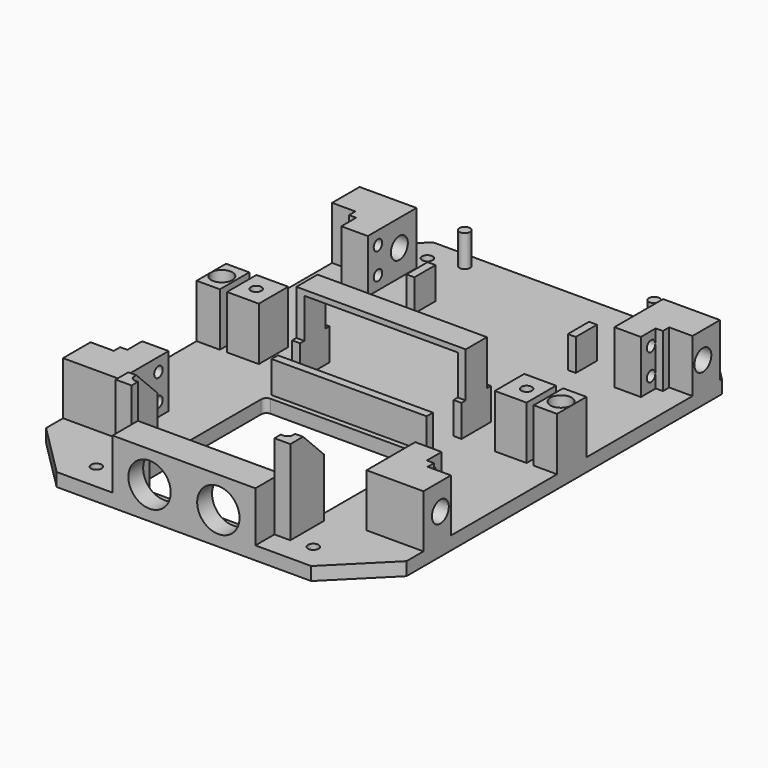
from build123d import *

# Parameters (mm, degrees)
CYLINDER311_R     = 2
CYLINDER311_DEPTH = 47
CYLINDER212_R     = 2
CYLINDER212_DEPTH = 47
CYLINDER229_R     = 2
CYLINDER229_DEPTH = 42
CYLINDER227_R     = 2
CYLINDER227_DEPTH = 42
CYLINDER283_R     = 4
CYLINDER283_DEPTH = 5
CYLINDER289_R     = 4
CYLINDER289_DEPTH = 5
BOX361_W          = 64
BOX361_H          = 10
BOX361_DEPTH      = 2
BOX358_W          = 3
BOX358_H          = 10
BOX358_DEPTH      = 27
BOX360_W          = 3
BOX360_H          = 10
BOX360_DEPTH      = 27
BOX214_W          = 3
BOX214_H          = 13.9
BOX214_DEPTH      = 12
BOX213_W          = 3
BOX213_H          = 13.9
BOX213_DEPTH      = 12
BOX402_W          = 3
BOX402_H          = 10
BOX402_DEPTH      = 12
BOX401_W          = 3
BOX401_H          = 10
BOX401_DEPTH      = 12
BOX235_W          = 58.6
BOX235_H          = 3
BOX235_DEPTH      = 12
CYLINDER304_R     = 2
CYLINDER304_DEPTH = 12
CYLINDER305_R     = 2
CYLINDER305_DEPTH = 12
BOX391_W          = 60
BOX391_H          = 13
BOX391_DEPTH      = 32
FILLET015_R       = 2
BOX388_W          = 6
BOX388_H          = 16
BOX388_DEPTH      = 32
BOX390_W          = 6
BOX390_H          = 16
BOX390_DEPTH      = 32
CHAMFER_SIZE      = 10
CYLINDER140_R     = 4
CYLINDER140_DEPTH = 47.8
BOX307_W          = 21.5
BOX307_H          = 13
BOX307_DEPTH      = 20
CYLINDER137_R     = 4
CYLINDER137_DEPTH = 47.8
BOX242_W          = 21.5
BOX242_H          = 13
BOX242_DEPTH      = 20
CYLINDER139_R     = 4
CYLINDER139_DEPTH = 47.8
BOX312_W          = 21.5
BOX312_H          = 13
BOX312_DEPTH      = 20
CYLINDER146_R     = 4
CYLINDER146_DEPTH = 47.8
BOX302_W          = 21.5
BOX302_H          = 13
BOX302_DEPTH      = 20
CYLINDER155_R     = 2
CYLINDER155_DEPTH = 20
CYLINDER156_R     = 2
CYLINDER156_DEPTH = 20
BOX345_W          = 10
BOX345_H          = 7
BOX345_DEPTH      = 20
BOX348_W          = 12.7
BOX348_H          = 3
BOX348_DEPTH      = 20
CYLINDER154_R     = 2
CYLINDER154_DEPTH = 20
CYLINDER153_R     = 2
CYLINDER153_DEPTH = 20
BOX347_W          = 12.7
BOX347_H          = 3
BOX347_DEPTH      = 20
BOX344_W          = 10
BOX344_H          = 7
BOX344_DEPTH      = 20
CYLINDER147_R     = 2
CYLINDER147_DEPTH = 20
CYLINDER148_R     = 2
CYLINDER148_DEPTH = 20
BOX229_W          = 10
BOX229_H          = 7
BOX229_DEPTH      = 20
BOX315_W          = 12.7
BOX315_H          = 3
BOX315_DEPTH      = 20
CYLINDER162_R     = 2
CYLINDER162_DEPTH = 20
CYLINDER161_R     = 2
CYLINDER161_DEPTH = 20
BOX346_W          = 10
BOX346_H          = 7
BOX346_DEPTH      = 20
BOX349_W          = 12.7
BOX349_H          = 3
BOX349_DEPTH      = 20
CYLINDER287_R     = 4
CYLINDER287_DEPTH = 10
BOX364_W          = 8.8
BOX364_H          = 13.9
BOX364_DEPTH      = 20.1
CYLINDER279_R     = 4
CYLINDER279_DEPTH = 5
BOX362_W          = 8.8
BOX362_H          = 13.9
BOX362_DEPTH      = 20.1
CYLINDER280_R     = 2
CYLINDER280_DEPTH = 25.1
BOX351_W          = 12
BOX351_H          = 13.9
BOX351_DEPTH      = 20.1
CYLINDER288_R     = 2
CYLINDER288_DEPTH = 30.1
BOX363_W          = 12
BOX363_H          = 13.9
BOX363_DEPTH      = 20.1
CYLINDER004_R     = 8
CYLINDER004_DEPTH = 15
CYLINDER005_R     = 8
CYLINDER005_DEPTH = 15
BOX027_W          = 45.2
BOX027_H          = 5
BOX027_DEPTH      = 20.4
BOX102_W          = 60
BOX102_H          = 64
BOX102_DEPTH      = 5
FILLET_R          = 2
BOX016_W          = 136.2
BOX016_H          = 184
BOX016_DEPTH      = 5
BOX254_W          = 54
BOX254_H          = 12
BOX254_DEPTH      = 22
CHAMFER036_SIZE   = 20
CHAMFER037_SIZE   = 15


with BuildPart() as cylinder311:
    # Cylinder311 → Cylinder311 (new body)
    with BuildSketch(Plane(origin=(-75, -98, -5), x_dir=(1, 0, 0), z_dir=(0, 0, 1))):
        Circle(CYLINDER311_R)
    extrude(amount=CYLINDER311_DEPTH)


with BuildPart() as fusion313:
    # Cylinder212 → Cylinder212 (new body)
    with BuildSketch(Plane(origin=(7, -98, -5), x_dir=(1, 0, 0), z_dir=(0, 0, 1))):
        Circle(CYLINDER212_R)
    extrude(amount=CYLINDER212_DEPTH)

    # Fusion313: union Cylinder311
    add(cylinder311.part)


with BuildPart() as cylinder229:
    # Cylinder229 → Cylinder229 (new body)
    with BuildSketch(Plane(origin=(14.1, 72, -5), x_dir=(1, 0, 0), z_dir=(0, 0, 1))):
        Circle(CYLINDER229_R)
    extrude(amount=CYLINDER229_DEPTH)


with BuildPart() as fusion318:
    # Cylinder227 → Cylinder227 (new body)
    with BuildSketch(Plane(origin=(-81.9, 72, -5), x_dir=(1, 0, 0), z_dir=(0, 0, 1))):
        Circle(CYLINDER227_R)
    extrude(amount=CYLINDER227_DEPTH)

    # Fusion273: union Cylinder229
    add(cylinder229.part)


with BuildPart() as fusion318_1:
    # Fusion273 placement: moved
    add(fusion318.part.moved(Location((0, -5, 0))))

    # Fusion318: union Fusion313
    add(fusion313.part)


with BuildPart() as cylinder283:
    # Cylinder283 → Cylinder283 (new body)
    with BuildSketch(Plane(origin=(17.2, -10, -5), x_dir=(1, 0, 0), z_dir=(0, 0, 1))):
        Circle(CYLINDER283_R)
    extrude(amount=CYLINDER283_DEPTH)


with BuildPart() as fusion327:
    # Cylinder289 → Cylinder289 (new body)
    with BuildSketch(Plane(origin=(-85, -10, -5), x_dir=(1, 0, 0), z_dir=(0, 0, 1))):
        Circle(CYLINDER289_R)
    extrude(amount=CYLINDER289_DEPTH)

    # Fusion216: union Cylinder283
    add(cylinder283.part)

    # Fusion327: union Fusion318
    add(fusion318_1.part)


with BuildPart() as box361:
    # Box361 → Box361 (new body)
    with BuildSketch(Plane(origin=(-65.9, -14.9, 27), x_dir=(1, 0, 0), z_dir=(0, 0, 1))):
        with Locations((32, 5)):
            Rectangle(BOX361_W, BOX361_H)
    extrude(amount=BOX361_DEPTH)


with BuildPart() as box358:
    # Box358 → Box358 (new body)
    with BuildSketch(Plane(origin=(-4.9, -14.9, 0), x_dir=(1, 0, 0), z_dir=(0, 0, 1))):
        with Locations((1.5, 5)):
            Rectangle(BOX358_W, BOX358_H)
    extrude(amount=BOX358_DEPTH)


with BuildPart() as fusion234:
    # Box360 → Box360 (new body)
    with BuildSketch(Plane(origin=(-65.9, -14.9, 0), x_dir=(1, 0, 0), z_dir=(0, 0, 1))):
        with Locations((1.5, 5)):
            Rectangle(BOX360_W, BOX360_H)
    extrude(amount=BOX360_DEPTH)

    # Fusion234: union Box361, Box358
    add(box361.part)
    add(box358.part)


with BuildPart() as box214:
    # Box214 → Box214 (new body)
    with BuildSketch(Plane(origin=(-4.9, -16.9, 0), x_dir=(1, 0, 0), z_dir=(0, 0, 1))):
        with Locations((1.5, 6.95)):
            Rectangle(BOX214_W, BOX214_H)
    extrude(amount=BOX214_DEPTH)


with BuildPart() as fusion235:
    # Box213 → Box213 (new body)
    with BuildSketch(Plane(origin=(-65.9, -16.9, 0), x_dir=(1, 0, 0), z_dir=(0, 0, 1))):
        with Locations((1.5, 6.95)):
            Rectangle(BOX213_W, BOX213_H)
    extrude(amount=BOX213_DEPTH)

    # Fusion235: union Box214
    add(box214.part)


with BuildPart() as box402:
    # Box402 → Box402 (new body)
    with BuildSketch(Plane(origin=(-4.9, -16.9, 0), x_dir=(1, 0, 0), z_dir=(0, 0, 1))):
        with Locations((1.5, 5)):
            Rectangle(BOX402_W, BOX402_H)
    extrude(amount=BOX402_DEPTH)


with BuildPart() as fusion236:
    # Box401 → Box401 (new body)
    with BuildSketch(Plane(origin=(-65.9, -16.9, 0), x_dir=(1, 0, 0), z_dir=(0, 0, 1))):
        with Locations((1.5, 5)):
            Rectangle(BOX401_W, BOX401_H)
    extrude(amount=BOX401_DEPTH)

    # Fusion236: union Box402
    add(box402.part)


with BuildPart() as fusion236_1:
    # Fusion236 placement: moved
    add(fusion236.part.moved(Location((0, 54, 0))))


with BuildPart() as fusion237:
    # Box235 → Box235 (new body)
    with BuildSketch(Plane(origin=(-63.2, -30, 0), x_dir=(1, 0, 0), z_dir=(0, 0, 1))):
        with Locations((29.3, 1.5)):
            Rectangle(BOX235_W, BOX235_H)
    extrude(amount=BOX235_DEPTH)

    # Fusion237: union Fusion234, Fusion235, Fusion236
    add(fusion234.part)
    add(fusion235.part)
    add(fusion236_1.part)


with BuildPart() as cylinder304:
    # Cylinder304 → Cylinder304 (new body)
    with BuildSketch(Plane(origin=(1.4, 70, 0), x_dir=(1, 0, 0), z_dir=(0, 0, 1))):
        Circle(CYLINDER304_R)
    extrude(amount=CYLINDER304_DEPTH)


with BuildPart() as fusion271:
    # Cylinder305 → Cylinder305 (new body)
    with BuildSketch(Plane(origin=(-70.2, 70, 0), x_dir=(1, 0, 0), z_dir=(0, 0, 1))):
        Circle(CYLINDER305_R)
    extrude(amount=CYLINDER305_DEPTH)

    # Fusion271: union Cylinder304
    add(cylinder304.part)


with BuildPart() as fillet015:
    # Box391 → Box391 (new body)
    with BuildSketch(Plane(origin=(-63.9, -93, 0), x_dir=(1, 0, 0), z_dir=(0, 0, 1))):
        with Locations((30, 6.5)):
            Rectangle(BOX391_W, BOX391_H)
    extrude(amount=BOX391_DEPTH)

    # Fillet015
    fillet015_edges = [fillet015.edges().sort_by_distance(p)[0] for p in [
        (-63.9, -93, 16),
        (-3.9, -93, 16),
    ]]
    fillet(fillet015_edges, radius=FILLET015_R)


with BuildPart() as box388:
    # Box388 → Box388 (new body)
    with BuildSketch(Plane(origin=(-66.9, -96, 0), x_dir=(1, 0, 0), z_dir=(0, 0, 1))):
        with Locations((3, 8)):
            Rectangle(BOX388_W, BOX388_H)
    extrude(amount=BOX388_DEPTH)


with BuildPart() as chamfer_body:
    # Box390 → Box390 (new body)
    with BuildSketch(Plane(origin=(-6.9, -96, 0), x_dir=(1, 0, 0), z_dir=(0, 0, 1))):
        with Locations((3, 8)):
            Rectangle(BOX390_W, BOX390_H)
    extrude(amount=BOX390_DEPTH)

    # Fusion307: union Box388
    add(box388.part)

    # Cut331: cut Fillet015
    add(fillet015.part, mode=Mode.SUBTRACT)


with BuildPart() as chamfer_body_1:
    # Cut331 placement: moved
    add(chamfer_body.part.moved(Location((0, -3, 0))))

    # Chamfer
    chamfer_edges = [chamfer_body_1.edges().sort_by_distance(p)[0] for p in [
        (-2.4, -83, 32),
        (-65.4, -83, 32),
    ]]
    chamfer(chamfer_edges, length=CHAMFER_SIZE)


with BuildPart() as cylinder140:
    # Cylinder140 → Cylinder140 (new body)
    with BuildSketch(Plane(origin=(9.4, -82, 10), x_dir=(0, 0, -1), z_dir=(1, 0, 0))):
        Circle(CYLINDER140_R)
    extrude(amount=CYLINDER140_DEPTH)


with BuildPart() as cut247:
    # Box307 → Box307 (new body)
    with BuildSketch(Plane(origin=(16.7, -90, 0), x_dir=(1, 0, 0), z_dir=(0, 0, 1))):
        with Locations((10.75, 6.5)):
            Rectangle(BOX307_W, BOX307_H)
    extrude(amount=BOX307_DEPTH)

    # Cut247: cut Cylinder140
    add(cylinder140.part, mode=Mode.SUBTRACT)


with BuildPart() as cut247_1:
    # Cut247 placement: moved
    add(cut247.part.moved(Location((-4, 10, 0))))


with BuildPart() as cylinder137:
    # Cylinder137 → Cylinder137 (new body)
    with BuildSketch(Plane(origin=(9.4, 62, 10), x_dir=(0, 0, -1), z_dir=(1, 0, 0))):
        Circle(CYLINDER137_R)
    extrude(amount=CYLINDER137_DEPTH)


with BuildPart() as cut093:
    # Box242 → Box242 (new body)
    with BuildSketch(Plane(origin=(16, 57.1, 0), x_dir=(1, 0, 0), z_dir=(0, 0, 1))):
        with Locations((10.75, 6.5)):
            Rectangle(BOX242_W, BOX242_H)
    extrude(amount=BOX242_DEPTH)

    # Cut093: cut Cylinder137
    add(cylinder137.part, mode=Mode.SUBTRACT)


with BuildPart() as cut093_1:
    # Cut093 placement: moved
    add(cut093.part.moved(Location((-3.3, -10, 0))))


with BuildPart() as cylinder139:
    # Cylinder139 → Cylinder139 (new body)
    with BuildSketch(Plane(origin=(-125, 62, 10), x_dir=(0, 0, -1), z_dir=(1, 0, 0))):
        Circle(CYLINDER139_R)
    extrude(amount=CYLINDER139_DEPTH)


with BuildPart() as cut245:
    # Box312 → Box312 (new body)
    with BuildSketch(Plane(origin=(-106, 57.1, 0), x_dir=(1, 0, 0), z_dir=(0, 0, 1))):
        with Locations((10.75, 6.5)):
            Rectangle(BOX312_W, BOX312_H)
    extrude(amount=BOX312_DEPTH)

    # Cut245: cut Cylinder139
    add(cylinder139.part, mode=Mode.SUBTRACT)


with BuildPart() as cut245_1:
    # Cut245 placement: moved
    add(cut245.part.moved(Location((4, -10, 0))))


with BuildPart() as cylinder146:
    # Cylinder146 → Cylinder146 (new body)
    with BuildSketch(Plane(origin=(-125, -82, 10), x_dir=(0, 0, -1), z_dir=(1, 0, 0))):
        Circle(CYLINDER146_R)
    extrude(amount=CYLINDER146_DEPTH)


with BuildPart() as fusion241:
    # Box302 → Box302 (new body)
    with BuildSketch(Plane(origin=(-106, -90, 0), x_dir=(1, 0, 0), z_dir=(0, 0, 1))):
        with Locations((10.75, 6.5)):
            Rectangle(BOX302_W, BOX302_H)
    extrude(amount=BOX302_DEPTH)

    # Cut246: cut Cylinder146
    add(cylinder146.part, mode=Mode.SUBTRACT)


with BuildPart() as fusion241_1:
    # Cut246 placement: moved
    add(fusion241.part.moved(Location((4, 10, 0))))

    # Fusion241: union Cut247, Cut093, Cut245
    add(cut247_1.part)
    add(cut093_1.part)
    add(cut245_1.part)


with BuildPart() as cylinder155:
    # Cylinder155 → Cylinder155 (new body)
    with BuildSketch(Plane(origin=(-97.2, 51.9, 5), x_dir=(0, 0, -1), z_dir=(1, 0, 0))):
        Circle(CYLINDER155_R)
    extrude(amount=CYLINDER155_DEPTH)


with BuildPart() as cylinder156:
    # Cylinder156 → Cylinder156 (new body)
    with BuildSketch(Plane(origin=(-97.2, 51.9, 15), x_dir=(0, 0, -1), z_dir=(1, 0, 0))):
        Circle(CYLINDER156_R)
    extrude(amount=CYLINDER156_DEPTH)


with BuildPart() as box345:
    # Box345 → Box345 (new body)
    with BuildSketch(Plane(origin=(-94.5, 47.1, 0), x_dir=(1, 0, 0), z_dir=(0, 0, 1))):
        with Locations((5, 3.5)):
            Rectangle(BOX345_W, BOX345_H)
    extrude(amount=BOX345_DEPTH)


with BuildPart() as cut244:
    # Box348 → Box348 (new body)
    with BuildSketch(Plane(origin=(-97.2, 54.1, 0), x_dir=(1, 0, 0), z_dir=(0, 0, 1))):
        with Locations((6.35, 1.5)):
            Rectangle(BOX348_W, BOX348_H)
    extrude(amount=BOX348_DEPTH)

    # Fusion191: union Box345
    add(box345.part)

    # Cut243: cut Cylinder156
    add(cylinder156.part, mode=Mode.SUBTRACT)

    # Cut244: cut Cylinder155
    add(cylinder155.part, mode=Mode.SUBTRACT)


with BuildPart() as cut244_1:
    # Cut244 placement: moved
    add(cut244.part.moved(Location((4, -10, 0))))


with BuildPart() as cylinder154:
    # Cylinder154 → Cylinder154 (new body)
    with BuildSketch(Plane(origin=(9.4, -71.8, 5), x_dir=(0, 0, -1), z_dir=(1, 0, 0))):
        Circle(CYLINDER154_R)
    extrude(amount=CYLINDER154_DEPTH)


with BuildPart() as cylinder153:
    # Cylinder153 → Cylinder153 (new body)
    with BuildSketch(Plane(origin=(9.4, -71.8, 15), x_dir=(0, 0, -1), z_dir=(1, 0, 0))):
        Circle(CYLINDER153_R)
    extrude(amount=CYLINDER153_DEPTH)


with BuildPart() as box347:
    # Box347 → Box347 (new body)
    with BuildSketch(Plane(origin=(16.7, -77, 0), x_dir=(1, 0, 0), z_dir=(0, 0, 1))):
        with Locations((6.35, 1.5)):
            Rectangle(BOX347_W, BOX347_H)
    extrude(amount=BOX347_DEPTH)


with BuildPart() as cut230:
    # Box344 → Box344 (new body)
    with BuildSketch(Plane(origin=(16.7, -74, 0), x_dir=(1, 0, 0), z_dir=(0, 0, 1))):
        with Locations((5, 3.5)):
            Rectangle(BOX344_W, BOX344_H)
    extrude(amount=BOX344_DEPTH)

    # Fusion184: union Box347
    add(box347.part)

    # Cut229: cut Cylinder153
    add(cylinder153.part, mode=Mode.SUBTRACT)

    # Cut230: cut Cylinder154
    add(cylinder154.part, mode=Mode.SUBTRACT)


with BuildPart() as cut230_1:
    # Cut230 placement: moved
    add(cut230.part.moved(Location((-4, 10, 0))))


with BuildPart() as cylinder147:
    # Cylinder147 → Cylinder147 (new body)
    with BuildSketch(Plane(origin=(9.4, 51.9, 5), x_dir=(0, 0, -1), z_dir=(1, 0, 0))):
        Circle(CYLINDER147_R)
    extrude(amount=CYLINDER147_DEPTH)


with BuildPart() as cylinder148:
    # Cylinder148 → Cylinder148 (new body)
    with BuildSketch(Plane(origin=(9.4, 51.9, 15), x_dir=(0, 0, -1), z_dir=(1, 0, 0))):
        Circle(CYLINDER148_R)
    extrude(amount=CYLINDER148_DEPTH)


with BuildPart() as box229:
    # Box229 → Box229 (new body)
    with BuildSketch(Plane(origin=(16.7, 47.1, 0), x_dir=(1, 0, 0), z_dir=(0, 0, 1))):
        with Locations((5, 3.5)):
            Rectangle(BOX229_W, BOX229_H)
    extrude(amount=BOX229_DEPTH)


with BuildPart() as cut236:
    # Box315 → Box315 (new body)
    with BuildSketch(Plane(origin=(16.7, 54.1, 0), x_dir=(1, 0, 0), z_dir=(0, 0, 1))):
        with Locations((6.35, 1.5)):
            Rectangle(BOX315_W, BOX315_H)
    extrude(amount=BOX315_DEPTH)

    # Fusion187: union Box229
    add(box229.part)

    # Cut235: cut Cylinder148
    add(cylinder148.part, mode=Mode.SUBTRACT)

    # Cut236: cut Cylinder147
    add(cylinder147.part, mode=Mode.SUBTRACT)


with BuildPart() as cut236_1:
    # Cut236 placement: moved
    add(cut236.part.moved(Location((-4, -10, 0))))


with BuildPart() as cylinder162:
    # Cylinder162 → Cylinder162 (new body)
    with BuildSketch(Plane(origin=(-97.2, -71.8, 5), x_dir=(0, 0, -1), z_dir=(1, 0, 0))):
        Circle(CYLINDER162_R)
    extrude(amount=CYLINDER162_DEPTH)


with BuildPart() as cylinder161:
    # Cylinder161 → Cylinder161 (new body)
    with BuildSketch(Plane(origin=(-97.2, -71.8, 15), x_dir=(0, 0, -1), z_dir=(1, 0, 0))):
        Circle(CYLINDER161_R)
    extrude(amount=CYLINDER161_DEPTH)


with BuildPart() as box346:
    # Box346 → Box346 (new body)
    with BuildSketch(Plane(origin=(-94.5, -74, 0), x_dir=(1, 0, 0), z_dir=(0, 0, 1))):
        with Locations((5, 3.5)):
            Rectangle(BOX346_W, BOX346_H)
    extrude(amount=BOX346_DEPTH)


with BuildPart() as fusion242:
    # Box349 → Box349 (new body)
    with BuildSketch(Plane(origin=(-97.2, -77, 0), x_dir=(1, 0, 0), z_dir=(0, 0, 1))):
        with Locations((6.35, 1.5)):
            Rectangle(BOX349_W, BOX349_H)
    extrude(amount=BOX349_DEPTH)

    # Fusion188: union Box346
    add(box346.part)

    # Cut237: cut Cylinder161
    add(cylinder161.part, mode=Mode.SUBTRACT)

    # Cut238: cut Cylinder162
    add(cylinder162.part, mode=Mode.SUBTRACT)


with BuildPart() as fusion242_1:
    # Cut238 placement: moved
    add(fusion242.part.moved(Location((4, 10, 0))))

    # Fusion242: union Cut244, Cut230, Cut236
    add(cut244_1.part)
    add(cut230_1.part)
    add(cut236_1.part)


with BuildPart() as cylinder287:
    # Cylinder287 → Cylinder287 (new body)
    with BuildSketch(Plane(origin=(-98, -10, 15.1), x_dir=(1, 0, 0), z_dir=(0, 0, 1))):
        Circle(CYLINDER287_R)
    extrude(amount=CYLINDER287_DEPTH)


with BuildPart() as cut263:
    # Box364 → Box364 (new body)
    with BuildSketch(Plane(origin=(-102, -16.9, 0), x_dir=(1, 0, 0), z_dir=(0, 0, 1))):
        with Locations((4.4, 6.95)):
            Rectangle(BOX364_W, BOX364_H)
    extrude(amount=BOX364_DEPTH)

    # Cut263: cut Cylinder287
    add(cylinder287.part, mode=Mode.SUBTRACT)


with BuildPart() as cylinder279:
    # Cylinder279 → Cylinder279 (new body)
    with BuildSketch(Plane(origin=(30.2, -10, 15.1), x_dir=(1, 0, 0), z_dir=(0, 0, 1))):
        Circle(CYLINDER279_R)
    extrude(amount=CYLINDER279_DEPTH)


with BuildPart() as fusion239:
    # Box362 → Box362 (new body)
    with BuildSketch(Plane(origin=(25.4, -16.9, 0), x_dir=(1, 0, 0), z_dir=(0, 0, 1))):
        with Locations((4.4, 6.95)):
            Rectangle(BOX362_W, BOX362_H)
    extrude(amount=BOX362_DEPTH)

    # Cut262: cut Cylinder279
    add(cylinder279.part, mode=Mode.SUBTRACT)

    # Fusion239: union Cut263
    add(cut263.part)


with BuildPart() as cylinder280:
    # Cylinder280 → Cylinder280 (new body)
    with BuildSketch(Plane(origin=(17.2, -10, -5), x_dir=(1, 0, 0), z_dir=(0, 0, 1))):
        Circle(CYLINDER280_R)
    extrude(amount=CYLINDER280_DEPTH)


with BuildPart() as cut261:
    # Box351 → Box351 (new body)
    with BuildSketch(Plane(origin=(10.7, -16.9, 0), x_dir=(1, 0, 0), z_dir=(0, 0, 1))):
        with Locations((6, 6.95)):
            Rectangle(BOX351_W, BOX351_H)
    extrude(amount=BOX351_DEPTH)

    # Cut261: cut Cylinder280
    add(cylinder280.part, mode=Mode.SUBTRACT)


with BuildPart() as cylinder288:
    # Cylinder288 → Cylinder288 (new body)
    with BuildSketch(Plane(origin=(-85, -10, -5), x_dir=(1, 0, 0), z_dir=(0, 0, 1))):
        Circle(CYLINDER288_R)
    extrude(amount=CYLINDER288_DEPTH)


with BuildPart() as fusion320:
    # Box363 → Box363 (new body)
    with BuildSketch(Plane(origin=(-90.5, -16.9, 0), x_dir=(1, 0, 0), z_dir=(0, 0, 1))):
        with Locations((6, 6.95)):
            Rectangle(BOX363_W, BOX363_H)
    extrude(amount=BOX363_DEPTH)

    # Cut264: cut Cylinder288
    add(cylinder288.part, mode=Mode.SUBTRACT)

    # Fusion238: union Cut261
    add(cut261.part)

    # Fusion240: union Fusion239
    add(fusion239.part)

    # Fusion243: union Fusion241, Fusion242
    add(fusion241_1.part)
    add(fusion242_1.part)

    # Fusion320: union Fusion237, Fusion271, Chamfer body
    add(fusion237.part)
    add(fusion271.part)
    add(chamfer_body_1.part)


with BuildPart() as cylinder004:
    # Cylinder004 → Cylinder004 (new body)
    with BuildSketch(Plane(origin=(-13, -93, 20.2), x_dir=(1, 0, 0), z_dir=(0, -1, 0))):
        Circle(CYLINDER004_R)
    extrude(amount=CYLINDER004_DEPTH)


with BuildPart() as cylinder005:
    # Cylinder005 → Cylinder005 (new body)
    with BuildSketch(Plane(origin=(-39, -93, 20.2), x_dir=(1, 0, 0), z_dir=(0, -1, 0))):
        Circle(CYLINDER005_R)
    extrude(amount=CYLINDER005_DEPTH)


with BuildPart() as fusion040:
    # Box027 → Box027 (new body)
    with BuildSketch(Plane(origin=(-48.6, -98, 10), x_dir=(1, 0, 0), z_dir=(0, 0, 1))):
        with Locations((22.6, 2.5)):
            Rectangle(BOX027_W, BOX027_H)
    extrude(amount=BOX027_DEPTH)

    # Fusion040: union Cylinder004, Cylinder005
    add(cylinder004.part)
    add(cylinder005.part)


with BuildPart() as fusion040_1:
    # Fusion040 placement: moved
    add(fusion040.part.moved(Location((-7.9, -3, -13))))


with BuildPart() as fillet_body:
    # Box102 → Box102 (new body)
    with BuildSketch(Plane(origin=(-63.9, -96, -5), x_dir=(1, 0, 0), z_dir=(0, 0, 1))):
        with Locations((30, 32)):
            Rectangle(BOX102_W, BOX102_H)
    extrude(amount=BOX102_DEPTH)

    # Fillet
    fillet_edges = [fillet_body.edges().sort_by_distance(p)[0] for p in [
        (-63.9, -96, -2.5),
        (-63.9, -32, -2.5),
        (-3.9, -96, -2.5),
        (-3.9, -32, -2.5),
    ]]
    fillet(fillet_edges, radius=FILLET_R)


with BuildPart() as cut334:
    # Box016 → Box016 (new body)
    with BuildSketch(Plane(origin=(-102, -108, -5), x_dir=(1, 0, 0), z_dir=(0, 0, 1))):
        with Locations((68.1, 92)):
            Rectangle(BOX016_W, BOX016_H)
    extrude(amount=BOX016_DEPTH)

    # Cut334: cut Fillet body
    add(fillet_body.part, mode=Mode.SUBTRACT)


with BuildPart() as cut340:
    # Box254 → Box254 (new body)
    with BuildSketch(Plane(origin=(-60.9, -108, -3), x_dir=(1, 0, 0), z_dir=(0, 0, 1))):
        with Locations((27, 6)):
            Rectangle(BOX254_W, BOX254_H)
    extrude(amount=BOX254_DEPTH)

    # Fusion311: union Cut334
    add(cut334.part)

    # Cut335: cut Fusion040
    add(fusion040_1.part, mode=Mode.SUBTRACT)

    # Chamfer036
    chamfer036_edges = [cut340.edges().sort_by_distance(p)[0] for p in [
        (34.2, -108, -2.5),
        (-102, -108, -2.5),
    ]]
    chamfer(chamfer036_edges, length=CHAMFER036_SIZE)

    # Chamfer037
    chamfer037_edges = [cut340.edges().sort_by_distance(p)[0] for p in [
        (34.2, 76, -2.5),
        (-102, 76, -2.5),
    ]]
    chamfer(chamfer037_edges, length=CHAMFER037_SIZE)

    # Fusion333: union Fusion320
    add(fusion320.part)

    # Cut340: cut Fusion327
    add(fusion327.part, mode=Mode.SUBTRACT)


solid = cut340.part
